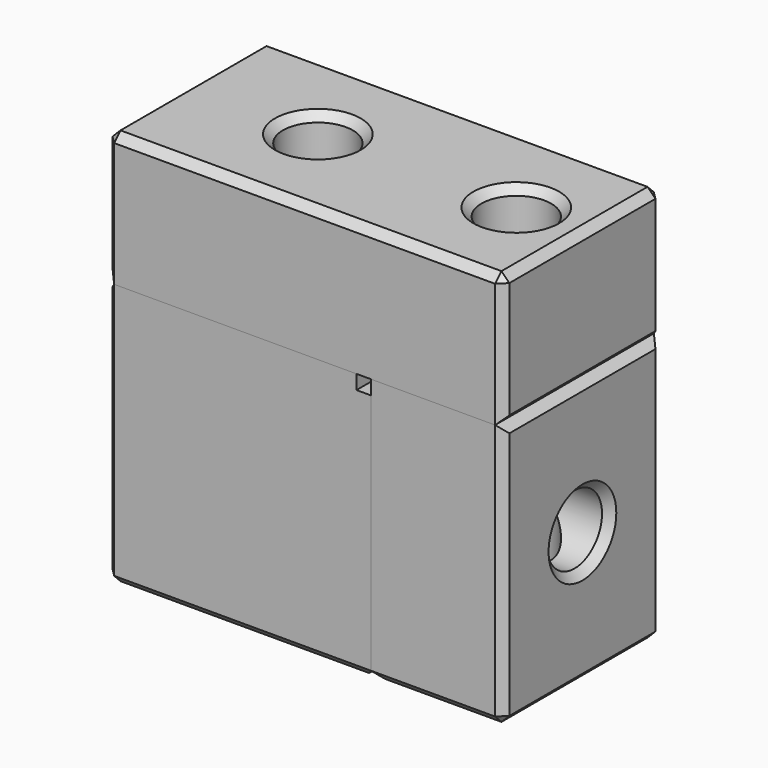
from build123d import *

# Parameters (mm, degrees)
F1_DEPTH   = 9.525
F3_DEPTH   = 9.525
F4_W       = 19.05
F4_H       = 6.35
F5_DEPTH   = 9.525
F6_R       = 1.651
F7_DEPTH   = 15.875
F8_R       = 1.6764
F9_DEPTH   = 15.875
F10_SIZE   = 0.381
F10_2_SIZE = 0.381
F10_3_SIZE = 0.381


with BuildPart() as f1:
    # F0 (on Front) → F1 (new body)
    with BuildSketch(Plane.XZ):
        Polygon((0.6858, 0), (0, 0), (0, 0.6858), (-12.0142, 0.6858), (-12.0142, -12.0142), (0.6858, -12.0142), align=None)
    extrude(amount=-F1_DEPTH)


with BuildPart() as f3:
    # F2 (on Front) → F3 (new body)
    with BuildSketch(Plane.XZ):
        Polygon((0.6858, 0), (0.6858, -12.0142), (7.0358, -12.0142), (7.0358, 0.6858), (0.6858, 0.6858), align=None)
    extrude(amount=-F3_DEPTH)


with BuildPart() as f5:
    # F4 (on Front) → F5 (new body)
    with BuildSketch(Plane.XZ):
        with Locations((-2.4892, 3.8608)):
            Rectangle(F4_W, F4_H)
    extrude(amount=-F5_DEPTH)


with BuildPart() as f7_tool:
    # F6 (on face) → F7 (new body)
    with BuildSketch(Plane.YZ.offset(7.0358)):
        with Locations((4.7625, -5.6642)):
            Circle(F6_R)
    extrude(amount=-F7_DEPTH)


with BuildPart() as f1_1:
    add(f1.part)

    # F7: cut by f7_tool
    add(f7_tool.part, mode=Mode.SUBTRACT)


with BuildPart() as f3_1:
    add(f3.part)

    # F7: cut by f7_tool
    add(f7_tool.part, mode=Mode.SUBTRACT)


with BuildPart() as f9_tool:
    # F8 (on face) → F9 (new body)
    with BuildSketch(Plane.XY.offset(7.0358)):
        with Locations((-5.6642, 4.7625)):
            Circle(F8_R)
        with Locations((3.8608, 4.7625)):
            Circle(F8_R)
    extrude(amount=-F9_DEPTH)


with BuildPart() as f1_2:
    add(f1_1.part)

    # F9: cut by f9_tool
    add(f9_tool.part, mode=Mode.SUBTRACT)

    # F10#3
    f10_3_edges = [f1_2.edges().sort_by_distance(p)[0] for p in [
        (-5.6642, 0, -12.0142),
        (-12.0142, 0, -5.6642),
        (0.6858, 4.7625, -12.0142),
        (-12.0142, 4.7625, -12.0142),
        (-5.6642, 9.525, -12.0142),
        (-12.0142, 9.525, -5.6642),
        (-12.0142, 4.7625, 0.6858),
    ]]
    chamfer(f10_3_edges, length=F10_3_SIZE)


with BuildPart() as f3_2:
    add(f3_1.part)

    # F9: cut by f9_tool
    add(f9_tool.part, mode=Mode.SUBTRACT)

    # F10#2
    f10_2_edges = [f3_2.edges().sort_by_distance(p)[0] for p in [
        (7.0358, 0, -5.6642),
        (3.8608, 0, -12.0142),
        (7.0358, 4.7625, 0.6858),
        (7.0358, 4.7625, -12.0142),
        (7.0358, 9.525, -5.6642),
        (7.0358, 3.1115, -5.6642),
        (0.6858, 4.7625, -12.0142),
        (3.8608, 9.525, -12.0142),
    ]]
    chamfer(f10_2_edges, length=F10_2_SIZE)


with BuildPart() as f5_1:
    add(f5.part)

    # F9: cut by f9_tool
    add(f9_tool.part, mode=Mode.SUBTRACT)

    # F10
    f10_edges = [f5_1.edges().sort_by_distance(p)[0] for p in [
        (7.0358, 0, 3.8608),
        (-12.0142, 0, 3.8608),
        (7.0358, 4.7625, 7.0358),
        (-2.4892, 0, 7.0358),
        (-2.4892, 9.525, 7.0358),
        (-12.0142, 4.7625, 7.0358),
        (2.1844, 4.7625, 7.0358),
        (-7.3406, 4.7625, 7.0358),
        (7.0358, 4.7625, 0.6858),
        (7.0358, 9.525, 3.8608),
        (-12.0142, 4.7625, 0.6858),
        (-12.0142, 9.525, 3.8608),
    ]]
    chamfer(f10_edges, length=F10_SIZE)


solid = Compound([f1_2.part, f3_2.part, f5_1.part])
